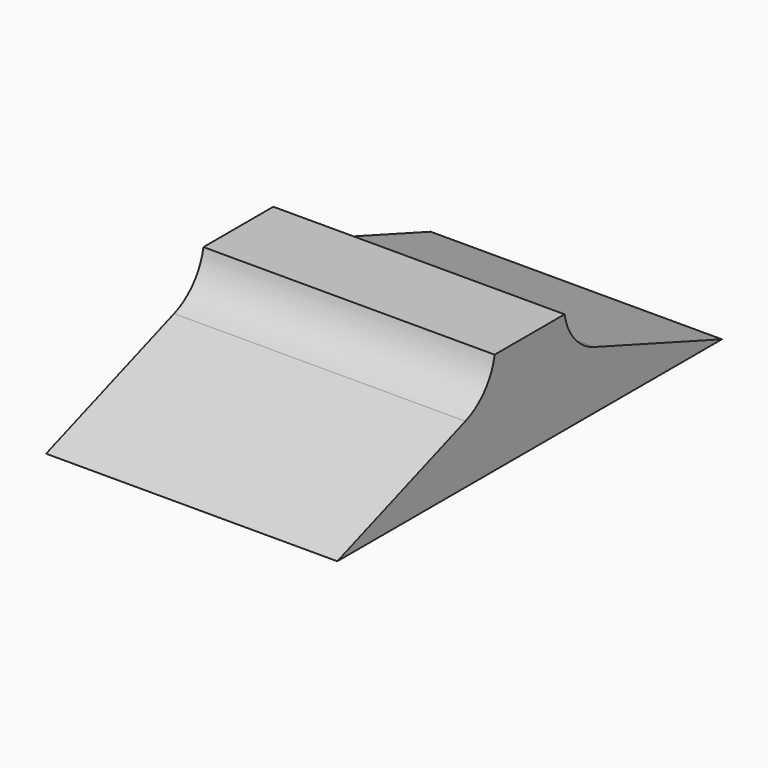
from build123d import *

# Parameters (mm, degrees)
F1_DEPTH = 2000


with BuildPart() as f1:
    # F0 (on Right) → F1 (new body)
    with BuildSketch(Plane.YZ):
        with BuildLine():
            Line((0, 700), (0, 0))
            Line((0, 0), (1650.720857, 0))
            Line((1650.720857, 0), (551.729889, 400))
            ThreePointArc((551.729889, 400), (385.672566, 516.27459), (300, 700))
            Line((300, 700), (0, 700))
        make_face()
    extrude(amount=F1_DEPTH)

    # F2: F1 across face


with BuildPart() as f1_1:
    add(f1.part)
    add(f1.part.mirror(Plane(origin=(1000, 0, 350), x_dir=(1, 0, 0), z_dir=(0, -1, 0))))


solid = f1_1.part
